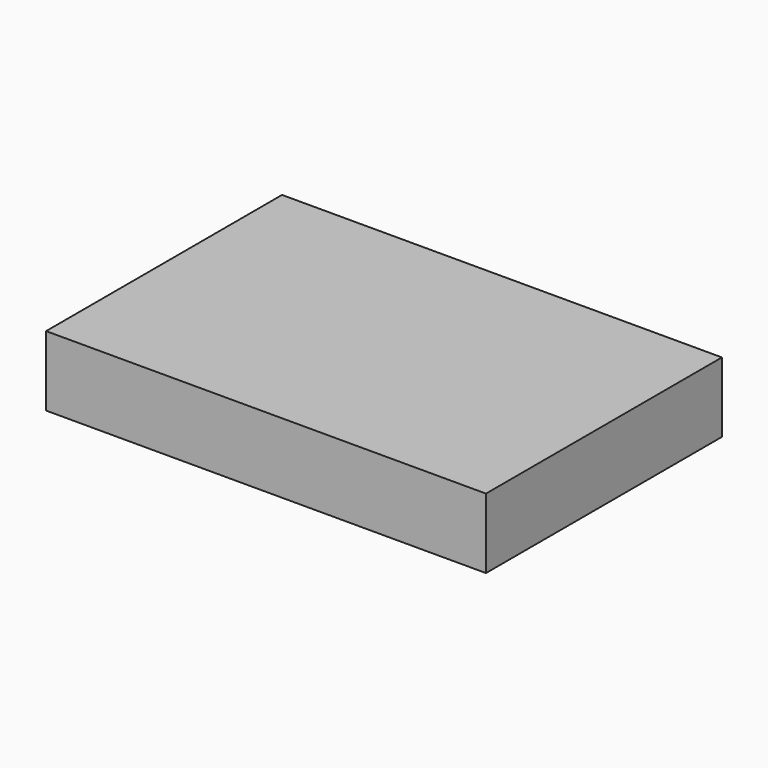
from build123d import *

# Parameters (mm, degrees)
F1_W     = 88
F1_H     = 59
F2_DEPTH = 14
F3_DEPTH = 12.5


with BuildPart() as f2:
    # F1 (on Top) → F2 (new body)
    with BuildSketch(Plane.XY):
        Rectangle(F1_W, F1_H)
    extrude(amount=F2_DEPTH)

    # F0 (on Top) → F3 (cut)
    with BuildSketch(Plane.XY):
        Polygon((-42.5, -28), (42.5, -28), (42.5, 28), (-34.5, 28), (-42.5, 20), align=None)
    extrude(amount=F3_DEPTH, mode=Mode.SUBTRACT)


solid = f2.part
